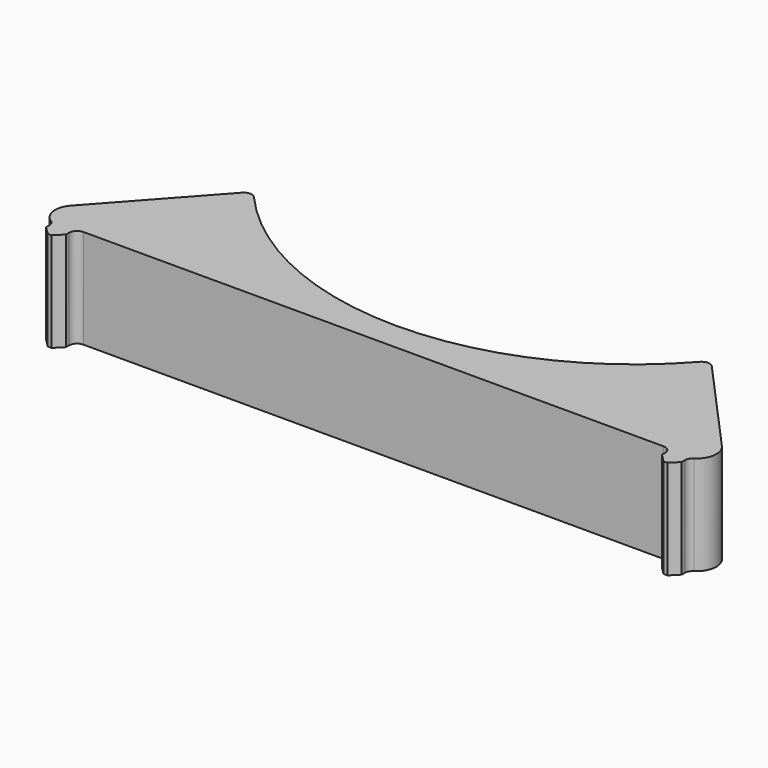
from build123d import *

# Parameters (mm, degrees)
F1_DEPTH = 25
F2_W     = 5
F2_H     = 25
F3_DEPTH = 5
F4_SIZE  = 2
F5_R     = 2
F6_R     = 5


with BuildPart() as f1:
    # F0 (on Top) → F1 (new body)
    with BuildSketch(Plane.XY):
        with BuildLine():
            ThreePointArc((57.667806, -47.952312), (0, -75), (-57.667806, -47.952312))
            Line((-57.667806, -47.952312), (-88.564008, -82.249977))
            Line((-88.564008, -82.249977), (0, -82.249977))
            Line((0, -82.249977), (88.564008, -82.249977))
            Line((88.564008, -82.249977), (57.667806, -47.952312))
        make_face()
    extrude(amount=F1_DEPTH)

    # F2 (on face) → F3 (join)
    with BuildSketch(Plane.XZ.offset(82.249977)):
        with Locations((77.608379, 12.5)):
            Rectangle(F2_W, F2_H)
        with Locations((-77.608379, 12.5)):
            Rectangle(F2_W, F2_H)
    extrude(amount=F3_DEPTH)

    # F4
    f4_edges = [f1.edges().sort_by_distance(p)[0] for p in [
        (-80.108379, -87.249977, 12.5),
        (-75.108379, -87.249977, 12.5),
        (75.108379, -87.249977, 12.5),
        (80.108379, -87.249977, 12.5),
    ]]
    chamfer(f4_edges, length=F4_SIZE)

    # F5
    f5_edges = [f1.edges().sort_by_distance(p)[0] for p in [
        (-80.108379, -82.249977, 12.5),
        (-75.108379, -82.249977, 12.5),
        (80.108379, -82.249977, 12.5),
        (75.108379, -82.249977, 12.5),
        (57.667806, -47.952312, 12.5),
        (-57.667806, -47.952312, 12.5),
    ]]
    fillet(f5_edges, radius=F5_R)

    # F6
    f6_edges = [f1.edges().sort_by_distance(p)[0] for p in [
        (-88.564008, -82.249977, 12.5),
        (88.564008, -82.249977, 12.5),
    ]]
    fillet(f6_edges, radius=F6_R)


solid = f1.part
